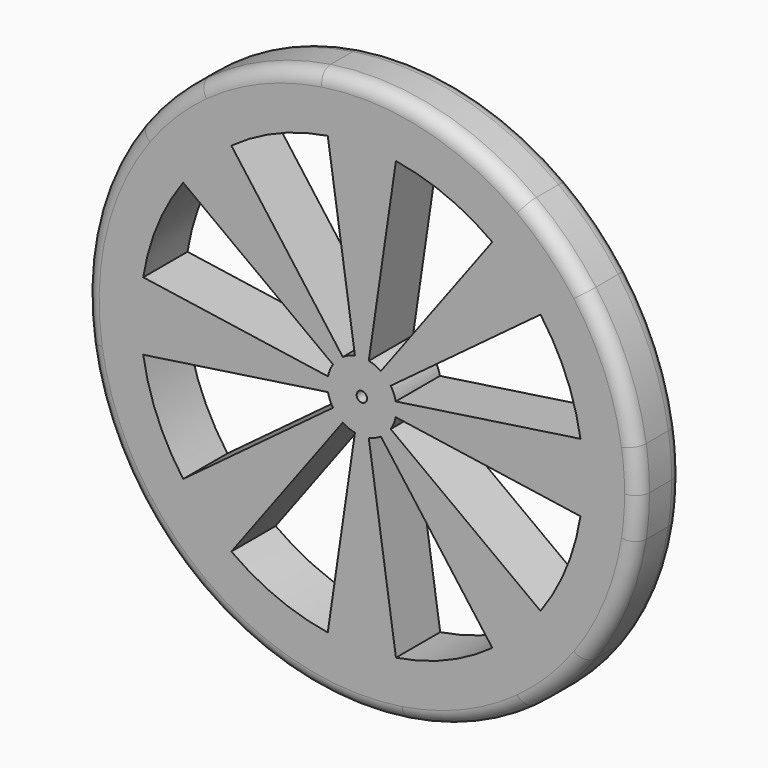
from build123d import *

# Parameters (mm, degrees)
F0_R     = 4.7625
F1_DEPTH = 50.8
F2_R     = 12.7


with BuildPart() as f1:
    # F0 (on Front) → F1 (new body)
    with BuildSketch(Plane.XZ):
        with BuildLine():
            ThreePointArc((171.7572451724, -35.3274357641), (173.9798664945, -16.0360244509), (174.7221865654, 3.3688088879))
            ThreePointArc((174.7221865654, 3.3688088879), (173.9798657597, 22.7736518176), (171.7572422416, 42.0650725533))
            ThreePointArc((171.7572422416, 42.0650725533), (155.3875841422, 100.5704095954), (125.5931558219, 153.5150241446))
            ThreePointArc((125.5931558219, 153.5150241446), (100.3273021851, 182.9739381109), (70.8683863051, 208.2397895165))
            ThreePointArc((70.8683863051, 208.2397895165), (17.9237694993, 238.0342138268), (-40.5815687826, 254.4038674949))
            ThreePointArc((-40.5815687826, 254.4038674949), (-79.2778230536, 257.3688088879), (-117.9740771, 254.4038645641))
            ThreePointArc((-117.9740771, 254.4038645641), (-176.4794141421, 238.0342064647), (-229.4240286913, 208.2397781444))
            ThreePointArc((-229.4240286913, 208.2397781444), (-258.8829426576, 182.9739245076), (-284.1487940632, 153.5150086276))
            ThreePointArc((-284.1487940632, 153.5150086276), (-313.9432183735, 100.5703918218), (-330.3128720416, 42.0650535399))
            ThreePointArc((-330.3128720416, 42.0650535399), (-333.2778134346, 3.3687992689), (-330.3128691108, -35.3274547775))
            ThreePointArc((-330.3128691108, -35.3274547775), (-313.9432110114, -93.8327918196), (-284.1487826911, -146.7774063688))
            ThreePointArc((-284.1487826911, -146.7774063688), (-258.8829290543, -176.2363203351), (-229.4240131743, -201.5021717407))
            ThreePointArc((-229.4240131743, -201.5021717407), (-176.4793963685, -231.296596051), (-117.9740580866, -247.6662497191))
            ThreePointArc((-117.9740580866, -247.6662497191), (-79.2778038156, -250.6311911121), (-40.5815497692, -247.6662467883))
            ThreePointArc((-40.5815497692, -247.6662467883), (17.9237872729, -231.2965886889), (70.8684018221, -201.5021603686))
            ThreePointArc((70.8684018221, -201.5021603686), (100.3273157884, -176.2363067318), (125.593167194, -146.7773908518))
            ThreePointArc((125.593167194, -146.7773908518), (155.3875915043, -93.832774046), (171.7572451724, -35.3274357641))
        make_face()
        with BuildLine():
            Line((-199.111355404, -160.7353111672), (-96.7847279201, -23.11836622))
            ThreePointArc((-96.7847279201, -23.11836622), (-91.4280109116, -25.9643668909), (-85.6278134346, -27.7397108454))
            Line((-85.6278134346, -27.7397108454), (-110.5818240092, -197.4054397645))
            ThreePointArc((-110.5818240092, -197.4054397645), (-157.0390796928, -184.3635151001), (-199.111355404, -160.7353111672))
        make_face(mode=Mode.SUBTRACT)
        with BuildLine():
            ThreePointArc((-243.3819243, -116.4647456663), (-267.0101314592, -74.3924717671), (-280.0520596864, -27.9352170836))
            Line((-280.0520596864, -27.9352170836), (-110.3863325182, -2.981194295))
            ThreePointArc((-110.3863325182, -2.981194295), (-108.6109879703, -8.7813915903), (-105.7649867513, -14.1381083077))
            Line((-105.7649867513, -14.1381083077), (-243.3819243, -116.4647456663))
        make_face(mode=Mode.SUBTRACT)
        with BuildLine():
            Line((-47.9737874631, -197.4054373639), (-72.9278102517, -27.7397101957))
            ThreePointArc((-72.9278102517, -27.7397101957), (-67.1276129564, -25.9643656478), (-61.770896239, -23.1183644288))
            Line((-61.770896239, -23.1183644288), (40.5557411196, -160.7353019775))
            ThreePointArc((40.5557411196, -160.7353019775), (-1.5165327796, -184.3635091367), (-47.9737874631, -197.4054373639))
        make_face(mode=Mode.SUBTRACT)
        with BuildLine():
            Line((84.8263066205, -116.4647330815), (-52.7906383267, -14.1381055976))
            ThreePointArc((-52.7906383267, -14.1381055976), (-49.9446376558, -8.7813885891), (-48.1692937013, -2.9811911121))
            Line((-48.1692937013, -2.9811911121), (121.4964352178, -27.9352016867))
            ThreePointArc((121.4964352178, -27.9352016867), (108.4545105534, -74.3924573703), (84.8263066205, -116.4647330815))
        make_face(mode=Mode.SUBTRACT)
        with BuildLine():
            Line((-243.3819334897, 123.2023508573), (-105.7649885425, 20.8757233734))
            ThreePointArc((-105.7649885425, 20.8757233734), (-108.6109892134, 15.5190063649), (-110.3863331679, 9.7188088879))
            Line((-110.3863331679, 9.7188088879), (-280.052062087, 34.6728194624))
            ThreePointArc((-280.052062087, 34.6728194624), (-267.0101374226, 81.1300751461), (-243.3819334897, 123.2023508573))
        make_face(mode=Mode.SUBTRACT)
        with BuildLine():
            Line((-110.5818394061, 204.1430551397), (-85.6278166175, 34.4773279715))
            ThreePointArc((-85.6278166175, 34.4773279715), (-91.4280139128, 32.7019834236), (-96.7847306302, 29.8559822046))
            Line((-96.7847306302, 29.8559822046), (-199.1113679888, 167.4729197533))
            ThreePointArc((-199.1113679888, 167.4729197533), (-157.0390940896, 191.1011269125), (-110.5818394061, 204.1430551397))
        make_face(mode=Mode.SUBTRACT)
        with Locations((-79.2778134346, 3.3688088879)):
            Circle(F0_R, mode=Mode.SUBTRACT)
        with BuildLine():
            Line((121.4964328172, 34.6728348594), (-48.169294351, 9.7188120708))
            ThreePointArc((-48.169294351, 9.7188120708), (-49.9446388989, 15.5190093661), (-52.7906401179, 20.8757260835))
            Line((-52.7906401179, 20.8757260835), (84.8262974308, 123.2023634421))
            ThreePointArc((84.8262974308, 123.2023634421), (108.45450459, 81.1300895429), (121.4964328172, 34.6728348594))
        make_face(mode=Mode.SUBTRACT)
        with BuildLine():
            ThreePointArc((-61.7708989491, 29.8559839958), (-67.1276159576, 32.7019846667), (-72.9278134346, 34.4773286212))
            Line((-72.9278134346, 34.4773286212), (-47.9738028601, 204.1430575403))
            ThreePointArc((-47.9738028601, 204.1430575403), (-1.5165471764, 191.1011328759), (40.5557285348, 167.472928943))
            Line((40.5557285348, 167.472928943), (-61.7708989491, 29.8559839958))
        make_face(mode=Mode.SUBTRACT)
    extrude(amount=F1_DEPTH)

    # F2
    f2_edges = [f1.edges().sort_by_distance(p)[0] for p in [
        (-229.424029, -50.8, 208.239778),
        (-229.424029, 0, 208.239778),
    ]]
    fillet(f2_edges, radius=F2_R)


solid = f1.part
